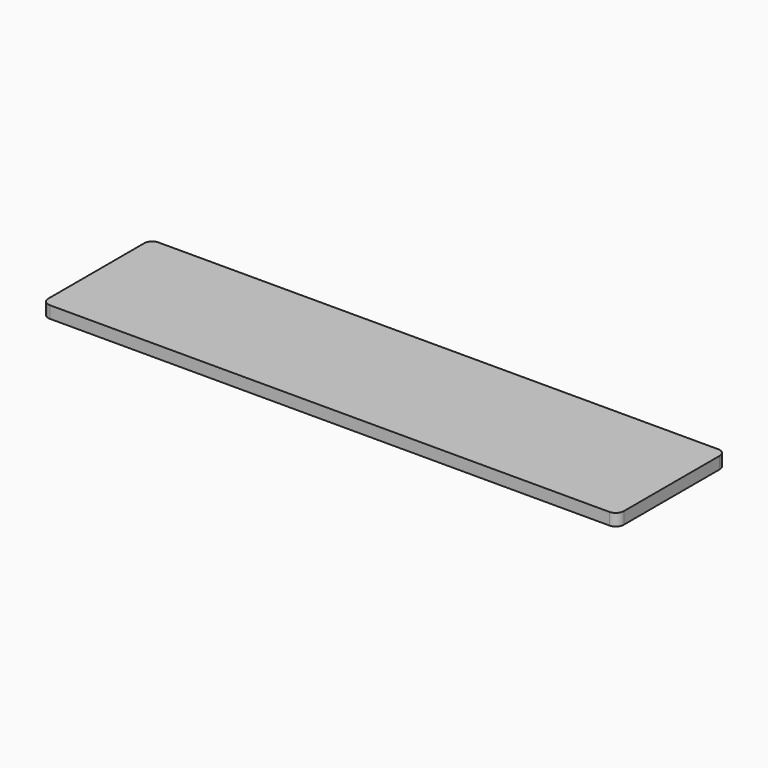
from build123d import *

# Parameters (mm, degrees)
SKETCH_W  = 144
SKETCH_H  = 34
PAD_DEPTH = 3
FILLET_R  = 2


with BuildPart() as part:
    # Sketch → Pad (new body)
    with BuildSketch(Plane.XY):
        with Locations((82, 27)):
            Rectangle(SKETCH_W, SKETCH_H)
    extrude(amount=PAD_DEPTH)

    # Fillet
    fillet_edges = [part.edges().sort_by_distance(p)[0] for p in [
        (10, 10, 1.5),
        (154, 10, 1.5),
        (154, 44, 1.5),
        (10, 44, 1.5),
    ]]
    fillet(fillet_edges, radius=FILLET_R)


solid = part.part
